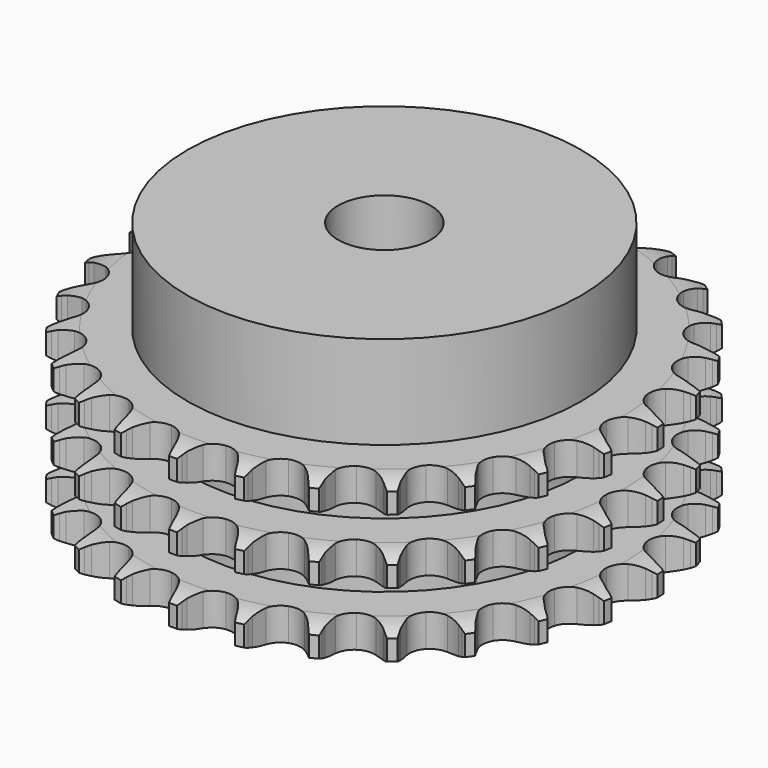
from build123d import *

# Parameters (mm, degrees)
PAD_DEPTH         = 34.9
SKETCH001_R       = 42.5
PAD001_DEPTH      = 55
SKETCH002_R       = 10
POCKET_DEPTH      = 0.001
POCKET_DEPTH_BACK = 55.001


with BuildPart() as part:
    # Sprocket → Pad (new body)
    with BuildSketch(Plane.XY):
        with BuildLine():
            ThreePointArc((-6.790948, 58.100272), (-5.963647, 57.039551), (-5.356117, 55.839358))
            Line((-5.356117, 55.839358), (-4.941702, 54.776235))
            ThreePointArc((-4.941702, 54.776235), (-4.282171, 53.379584), (-3.435517, 52.087767))
            ThreePointArc((-3.435517, 52.087767), (-1.917573, 50.832759), (0, 50.383192))
            ThreePointArc((0, 50.383192), (1.917573, 50.832759), (3.435517, 52.087767))
            ThreePointArc((3.435517, 52.087767), (4.282171, 53.379584), (4.941702, 54.776235))
            Line((4.941702, 54.776235), (5.356117, 55.839358))
            ThreePointArc((5.356117, 55.839358), (5.963647, 57.039551), (6.790948, 58.100272))
            ThreePointArc((6.790948, 58.100272), (7.35133, 56.877354), (7.6657, 55.569406))
            Line((7.6657, 55.569406), (7.823772, 54.439369))
            ThreePointArc((7.823772, 54.439369), (8.143435, 52.928267), (8.669354, 51.47602))
            ThreePointArc((8.669354, 51.47602), (9.856956, 49.904778), (11.619164, 49.025107))
            ThreePointArc((11.619164, 49.025107), (13.588726, 49.020333), (15.355178, 49.89145))
            Line((15.355178, 49.89145), (17.440766, 52.160099))
            ThreePointArc((17.440766, 52.160099), (17.752927, 52.637868), (18.089184, 53.098995))
            ThreePointArc((18.089184, 53.098995), (18.957122, 54.126731), (20.006742, 54.968071))
            ThreePointArc((20.006742, 54.968071), (20.269994, 53.648884), (20.274257, 52.303693))
            Line((20.274257, 52.303693), (20.167463, 51.167663))
            ThreePointArc((20.167463, 51.167663), (20.130026, 49.623573), (20.306857, 48.089186))
            ThreePointArc((20.306857, 48.089186), (21.100094, 46.286418), (22.611935, 45.024065))
            ThreePointArc((22.611935, 45.024065), (24.527307, 44.565207), (26.447037, 45.005472))
            Line((26.447037, 45.005472), (28.999595, 46.732))
            ThreePointArc((28.999595, 46.732), (29.413522, 47.1249), (29.847059, 47.496052))
            ThreePointArc((29.847059, 47.496052), (30.928613, 48.295924), (32.143967, 48.872528))
            ThreePointArc((32.143967, 48.872528), (32.095898, 47.528189), (31.789824, 46.218275))
            Line((31.789824, 46.218275), (31.423922, 45.137495))
            ThreePointArc((31.423922, 45.137495), (31.031402, 43.64366), (30.849613, 42.109852))
            ThreePointArc((30.849613, 42.109852), (31.205721, 40.172745), (32.385692, 38.595765))
            ThreePointArc((32.385692, 38.595765), (34.143614, 37.70756), (36.11313, 37.693237))
            Line((36.11313, 37.693237), (38.995048, 38.784566))
            ThreePointArc((38.995048, 38.784566), (39.488427, 39.071418), (39.995871, 39.332584))
            ThreePointArc((39.995871, 39.332584), (41.232735, 39.861472), (42.548303, 40.142253))
            ThreePointArc((42.548303, 40.142253), (42.191503, 38.845237), (41.591593, 37.641218))
            Line((41.591593, 37.641218), (40.986309, 36.673953))
            ThreePointArc((40.986309, 36.673953), (40.259868, 35.310906), (39.729258, 33.860366))
            ThreePointArc((39.729258, 33.860366), (39.62904, 31.893349), (40.413527, 30.086756))
            ThreePointArc((40.413527, 30.086756), (41.91923, 28.817089), (43.832355, 28.34895))
            Line((43.832355, 28.34895), (46.888268, 28.746246))
            ThreePointArc((46.888268, 28.746246), (47.4345, 28.911584), (47.988495, 29.048687))
            ThreePointArc((47.988495, 29.048687), (49.31399, 29.278078), (50.658849, 29.2479))
            ThreePointArc((50.658849, 29.2479), (50.012554, 28.068129), (49.151148, 27.034912))
            Line((49.151148, 27.034912), (48.339113, 26.233308))
            ThreePointArc((48.339113, 26.233308), (47.317913, 25.074531), (46.467088, 23.785458))
            ThreePointArc((46.467088, 23.785458), (45.915946, 21.894574), (46.262659, 19.955763))
            ThreePointArc((46.262659, 19.955763), (47.43497, 18.37308), (49.188566, 17.476364))
            Line((49.188566, 17.476364), (52.253729, 17.158208))
            ThreePointArc((52.253729, 17.158208), (52.823367, 17.19312), (53.394047, 17.198767))
            ThreePointArc((53.394047, 17.198767), (54.736714, 17.116295), (56.038363, 16.776784))
            ThreePointArc((56.038363, 16.776784), (55.137415, 15.77786), (54.060952, 14.971148))
            Line((54.060952, 14.971148), (53.085943, 14.378419))
            ThreePointArc((53.085943, 14.378419), (51.825037, 13.486382), (50.699866, 12.428269))
            ThreePointArc((50.699866, 12.428269), (49.727512, 10.715457), (49.617759, 8.74895))
            ThreePointArc((49.617759, 8.74895), (50.393478, 6.938575), (51.893008, 5.661622))
            Line((51.893008, 5.661622), (54.802178, 4.645167))
            ThreePointArc((54.802178, 4.645167), (55.364513, 4.547771), (55.921112, 4.421657))
            ThreePointArc((55.921112, 4.421657), (57.208568, 4.031768), (58.396834, 3.401228))
            ThreePointArc((58.396834, 3.401228), (57.289804, 2.637003), (56.056317, 2.100285))
            Line((56.056317, 2.100285), (54.970896, 1.748386))
            ThreePointArc((54.970896, 1.748386), (53.538261, 1.171179), (52.199401, 0.40107))
            ThreePointArc((52.199401, 0.40107), (50.858255, -1.041333), (50.297952, -2.929522))
            ThreePointArc((50.297952, -2.929522), (50.635261, -4.869991), (51.799886, -6.458339))
            Line((51.799886, -6.458339), (54.396227, -8.118296))
            ThreePointArc((54.396227, -8.118296), (54.920944, -8.34275), (55.433456, -8.593825))
            ThreePointArc((55.433456, -8.593825), (56.596294, -9.270112), (57.607117, -10.157689))
            ThreePointArc((57.607117, -10.157689), (56.353685, -10.646016), (55.029671, -10.883805))
            Line((55.029671, -10.883805), (53.892354, -10.975903))
            ThreePointArc((53.892354, -10.975903), (52.365222, -11.207163), (50.884852, -11.647751))
            ThreePointArc((50.884852, -11.647751), (49.247216, -12.741984), (48.26657, -14.450062))
            ThreePointArc((48.26657, -14.450062), (48.147284, -16.416015), (48.914218, -18.230129))
            Line((48.914218, -18.230129), (51.057762, -20.444099))
            ThreePointArc((51.057762, -20.444099), (51.516572, -20.783512), (51.957367, -21.146012))
            ThreePointArc((51.957367, -21.146012), (52.932898, -22.072239), (53.711785, -23.169003))
            ThreePointArc((53.711785, -23.169003), (52.379523, -23.355106), (51.036361, -23.281146))
            Line((51.036361, -23.281146), (49.908461, -23.108478))
            ThreePointArc((49.908461, -23.108478), (48.369161, -22.981324), (46.827088, -23.068639))
            ThreePointArc((46.827088, -23.068639), (44.981247, -23.755712), (43.633125, -25.191596))
            ThreePointArc((43.633125, -25.191596), (43.063674, -27.077047), (43.391571, -29.019129))
            Line((43.391571, -29.019129), (44.96676, -31.667756))
            ThreePointArc((44.96676, -31.667756), (45.334928, -32.103829), (45.680244, -32.558212))
            ThreePointArc((45.680244, -32.558212), (46.415876, -33.684445), (46.920838, -34.931269))
            ThreePointArc((46.920838, -34.931269), (45.581569, -34.805115), (44.291667, -34.423394))
            Line((44.291667, -34.423394), (43.233991, -33.99527))
            ThreePointArc((43.233991, -33.99527), (41.765506, -33.516555), (40.244864, -33.24589))
            ThreePointArc((40.244864, -33.24589), (38.290328, -33.488763), (36.647406, -34.575045))
            ThreePointArc((36.647406, -34.575045), (35.65849, -36.278348), (35.529674, -38.243699))
            Line((35.529674, -38.243699), (36.451588, -41.184196))
            ThreePointArc((36.451588, -41.184196), (36.709267, -41.69342), (36.940487, -42.21519))
            ThreePointArc((36.940487, -42.21519), (37.396563, -43.480714), (37.600375, -44.810382))
            ThreePointArc((37.600375, -44.810382), (36.3263, -44.378772), (35.159199, -43.709868))
            Line((35.159199, -43.709868), (34.228764, -43.049367))
            ThreePointArc((34.228764, -43.049367), (32.910262, -42.244901), (31.493028, -41.630848))
            ThreePointArc((31.493028, -41.630848), (29.535167, -41.416427), (27.686017, -42.094543))
            ThreePointArc((27.686017, -42.094543), (26.330948, -43.523874), (25.752363, -45.406542))
            Line((25.752363, -45.406542), (25.971301, -48.480386))
            ThreePointArc((25.971301, -48.480386), (26.1046, -49.035308), (26.209258, -49.596337))
            ThreePointArc((26.209258, -49.596337), (26.361191, -50.932927), (26.252867, -52.273756))
            ThreePointArc((26.252867, -52.273756), (25.11267, -51.559957), (24.131288, -50.639933))
            Line((24.131288, -50.639933), (23.378256, -49.782662))
            ThreePointArc((23.378256, -49.782662), (22.280817, -48.695813), (21.043395, -47.771475))
            ThreePointArc((21.043395, -47.771475), (19.187757, -47.11132), (17.232067, -47.344714))
            ThreePointArc((17.232067, -47.344714), (15.583898, -48.423017), (14.586736, -50.121507))
            Line((14.586736, -50.121507), (14.090895, -53.162985))
            ThreePointArc((14.090895, -53.162985), (14.092627, -53.73369), (14.065082, -54.303732))
            ThreePointArc((14.065082, -54.303732), (13.90468, -55.639332), (13.49006, -56.919038))
            ThreePointArc((13.49006, -56.919038), (12.545211, -55.961533), (11.802454, -54.839985))
            Line((11.802454, -54.839985), (11.26742, -53.832161))
            ThreePointArc((11.26742, -53.832161), (10.450208, -52.521521), (9.459308, -51.336729))
            ThreePointArc((9.459308, -51.336729), (7.805931, -50.266429), (5.849132, -50.042519))
            ThreePointArc((5.849132, -50.042519), (3.996716, -50.711663), (2.634734, -52.134408))
            Line((2.634734, -52.134408), (1.450845, -54.979554))
            ThreePointArc((1.450845, -54.979554), (1.320916, -55.535275), (1.162653, -56.083599))
            ThreePointArc((1.162653, -56.083599), (0.698565, -57.346207), (0, -58.4958))
            ThreePointArc((0, -58.4958), (-0.698565, -57.346207), (-1.162653, -56.083599))
            Line((-1.162653, -56.083599), (-1.450845, -54.979554))
            ThreePointArc((-1.450845, -54.979554), (-1.943775, -53.51578), (-2.634734, -52.134408))
            ThreePointArc((-2.634734, -52.134408), (-3.996716, -50.711663), (-5.849132, -50.042519))
            ThreePointArc((-5.849132, -50.042519), (-7.805931, -50.266429), (-9.459308, -51.336729))
            Line((-9.459308, -51.336729), (-11.26742, -53.832161))
            ThreePointArc((-11.26742, -53.832161), (-11.522005, -54.342938), (-11.802454, -54.839985))
            ThreePointArc((-11.802454, -54.839985), (-12.545211, -55.961533), (-13.49006, -56.919038))
            ThreePointArc((-13.49006, -56.919038), (-13.90468, -55.639332), (-14.065082, -54.303732))
            Line((-14.065082, -54.303732), (-14.090895, -53.162985))
            ThreePointArc((-14.090895, -53.162985), (-14.232969, -51.62499), (-14.586736, -50.121507))
            ThreePointArc((-14.586736, -50.121507), (-15.583898, -48.423017), (-17.232067, -47.344714))
            ThreePointArc((-17.232067, -47.344714), (-19.187757, -47.11132), (-21.043395, -47.771475))
            Line((-21.043395, -47.771475), (-23.378256, -49.782662))
            ThreePointArc((-23.378256, -49.782662), (-23.743772, -50.22096), (-24.131288, -50.639933))
            ThreePointArc((-24.131288, -50.639933), (-25.11267, -51.559957), (-26.252867, -52.273756))
            ThreePointArc((-26.252867, -52.273756), (-26.361191, -50.932927), (-26.209258, -49.596337))
            Line((-26.209258, -49.596337), (-25.971301, -48.480386))
            ThreePointArc((-25.971301, -48.480386), (-25.75486, -46.951083), (-25.752363, -45.406542))
            ThreePointArc((-25.752363, -45.406542), (-26.330948, -43.523874), (-27.686017, -42.094543))
            ThreePointArc((-27.686017, -42.094543), (-29.535167, -41.416427), (-31.493028, -41.630848))
            Line((-31.493028, -41.630848), (-34.228764, -43.049367))
            ThreePointArc((-34.228764, -43.049367), (-34.685506, -43.391557), (-35.159199, -43.709868))
            ThreePointArc((-35.159199, -43.709868), (-36.3263, -44.378772), (-37.600375, -44.810382))
            ThreePointArc((-37.600375, -44.810382), (-37.396563, -43.480714), (-36.940487, -42.21519))
            Line((-36.940487, -42.21519), (-36.451588, -41.184196))
            ThreePointArc((-36.451588, -41.184196), (-35.888299, -39.746031), (-35.529674, -38.243699))
            ThreePointArc((-35.529674, -38.243699), (-35.65849, -36.278348), (-36.647406, -34.575045))
            ThreePointArc((-36.647406, -34.575045), (-38.290328, -33.488763), (-40.244864, -33.24589))
            Line((-40.244864, -33.24589), (-43.233991, -33.99527))
            ThreePointArc((-43.233991, -33.99527), (-43.757335, -34.222904), (-44.291667, -34.423394))
            ThreePointArc((-44.291667, -34.423394), (-45.581569, -34.805115), (-46.920838, -34.931269))
            ThreePointArc((-46.920838, -34.931269), (-46.415876, -33.684445), (-45.680244, -32.558212))
            Line((-45.680244, -32.558212), (-44.96676, -31.667756))
            ThreePointArc((-44.96676, -31.667756), (-44.086991, -30.398261), (-43.391571, -29.019129))
            ThreePointArc((-43.391571, -29.019129), (-43.063674, -27.077047), (-43.633125, -25.191596))
            ThreePointArc((-43.633125, -25.191596), (-44.981247, -23.755712), (-46.827088, -23.068639))
            Line((-46.827088, -23.068639), (-49.908461, -23.108478))
            ThreePointArc((-49.908461, -23.108478), (-50.470195, -23.209285), (-51.036361, -23.281146))
            ThreePointArc((-51.036361, -23.281146), (-52.379523, -23.355106), (-53.711785, -23.169003))
            ThreePointArc((-53.711785, -23.169003), (-52.932898, -22.072239), (-51.957367, -21.146012))
            Line((-51.957367, -21.146012), (-51.057762, -20.444099))
            ThreePointArc((-51.057762, -20.444099), (-49.908942, -19.411712), (-48.914218, -18.230129))
            ThreePointArc((-48.914218, -18.230129), (-48.147284, -16.416015), (-48.26657, -14.450062))
            ThreePointArc((-48.26657, -14.450062), (-49.247216, -12.741984), (-50.884852, -11.647751))
            Line((-50.884852, -11.647751), (-53.892354, -10.975903))
            ThreePointArc((-53.892354, -10.975903), (-54.462194, -10.944448), (-55.029671, -10.883805))
            ThreePointArc((-55.029671, -10.883805), (-56.353685, -10.646016), (-57.607117, -10.157689))
            ThreePointArc((-57.607117, -10.157689), (-56.596294, -9.270112), (-55.433456, -8.593825))
            Line((-55.433456, -8.593825), (-54.396227, -8.118296))
            ThreePointArc((-54.396227, -8.118296), (-53.040288, -7.378673), (-51.799886, -6.458339))
            ThreePointArc((-51.799886, -6.458339), (-50.635261, -4.869991), (-50.297952, -2.929522))
            ThreePointArc((-50.297952, -2.929522), (-50.858255, -1.041333), (-52.199401, 0.40107))
            Line((-52.199401, 0.40107), (-54.970896, 1.748386))
            ThreePointArc((-54.970896, 1.748386), (-55.518122, 1.910407), (-56.056317, 2.100285))
            ThreePointArc((-56.056317, 2.100285), (-57.289804, 2.637003), (-58.396834, 3.401228))
            ThreePointArc((-58.396834, 3.401228), (-57.208568, 4.031768), (-55.921112, 4.421657))
            Line((-55.921112, 4.421657), (-54.802178, 4.645167))
            ThreePointArc((-54.802178, 4.645167), (-53.31222, 5.052153), (-51.893008, 5.661622))
            ThreePointArc((-51.893008, 5.661622), (-50.393478, 6.938575), (-49.617759, 8.74895))
            ThreePointArc((-49.617759, 8.74895), (-49.727512, 10.715457), (-50.699866, 12.428269))
            Line((-50.699866, 12.428269), (-53.085943, 14.378419))
            ThreePointArc((-53.085943, 14.378419), (-53.581054, 14.662272), (-54.060952, 14.971148))
            ThreePointArc((-54.060952, 14.971148), (-55.137415, 15.77786), (-56.038363, 16.776784))
            ThreePointArc((-56.038363, 16.776784), (-54.736714, 17.116295), (-53.394047, 17.198767))
            Line((-53.394047, 17.198767), (-52.253729, 17.158208))
            ThreePointArc((-52.253729, 17.158208), (-50.710075, 17.210615), (-49.188566, 17.476364))
            ThreePointArc((-49.188566, 17.476364), (-47.43497, 18.37308), (-46.262659, 19.955763))
            ThreePointArc((-46.262659, 19.955763), (-45.915946, 21.894574), (-46.467088, 23.785458))
            Line((-46.467088, 23.785458), (-48.339113, 26.233308))
            ThreePointArc((-48.339113, 26.233308), (-48.755417, 26.62369), (-49.151148, 27.034912))
            ThreePointArc((-49.151148, 27.034912), (-50.012554, 28.068129), (-50.658849, 29.2479))
            ThreePointArc((-50.658849, 29.2479), (-49.31399, 29.278078), (-47.988495, 29.048687))
            Line((-47.988495, 29.048687), (-46.888268, 28.746246))
            ThreePointArc((-46.888268, 28.746246), (-45.374138, 28.441249), (-43.832355, 28.34895))
            ThreePointArc((-43.832355, 28.34895), (-41.91923, 28.817089), (-40.413527, 30.086756))
            ThreePointArc((-40.413527, 30.086756), (-39.62904, 31.893349), (-39.729258, 33.860366))
            Line((-39.729258, 33.860366), (-40.986309, 36.673953))
            ThreePointArc((-40.986309, 36.673953), (-41.301363, 37.149818), (-41.591593, 37.641218))
            ThreePointArc((-41.591593, 37.641218), (-42.191503, 38.845237), (-42.548303, 40.142253))
            ThreePointArc((-42.548303, 40.142253), (-41.232735, 39.861472), (-39.995871, 39.332584))
            Line((-39.995871, 39.332584), (-38.995048, 38.784566))
            ThreePointArc((-38.995048, 38.784566), (-37.592068, 38.138608), (-36.11313, 37.693237))
            ThreePointArc((-36.11313, 37.693237), (-34.143614, 37.70756), (-32.385692, 38.595765))
            ThreePointArc((-32.385692, 38.595765), (-31.205721, 40.172745), (-30.849613, 42.109852))
            Line((-30.849613, 42.109852), (-31.423922, 45.137495))
            ThreePointArc((-31.423922, 45.137495), (-31.620742, 45.67319), (-31.789824, 46.218275))
            ThreePointArc((-31.789824, 46.218275), (-32.095898, 47.528189), (-32.143967, 48.872528))
            ThreePointArc((-32.143967, 48.872528), (-30.928613, 48.295924), (-29.847059, 47.496052))
            Line((-29.847059, 47.496052), (-28.999595, 46.732))
            ThreePointArc((-28.999595, 46.732), (-27.783401, 45.779904), (-26.447037, 45.005472))
            ThreePointArc((-26.447037, 45.005472), (-24.527307, 44.565207), (-22.611935, 45.024065))
            ThreePointArc((-22.611935, 45.024065), (-21.100094, 46.286418), (-20.306857, 48.089186))
            Line((-20.306857, 48.089186), (-20.167463, 51.167663))
            ThreePointArc((-20.167463, 51.167663), (-20.235438, 51.734308), (-20.274257, 52.303693))
            ThreePointArc((-20.274257, 52.303693), (-20.269994, 53.648884), (-20.006742, 54.968071))
            ThreePointArc((-20.006742, 54.968071), (-18.957122, 54.126731), (-18.089184, 53.098995))
            Line((-18.089184, 53.098995), (-17.440766, 52.160099))
            ThreePointArc((-17.440766, 52.160099), (-16.476923, 50.953194), (-15.355178, 49.89145))
            ThreePointArc((-15.355178, 49.89145), (-13.588726, 49.020333), (-11.619164, 49.025107))
            ThreePointArc((-11.619164, 49.025107), (-9.856956, 49.904778), (-8.669354, 51.47602))
            Line((-8.669354, 51.47602), (-7.823772, 54.439369))
            ThreePointArc((-7.823772, 54.439369), (-7.759237, 55.006416), (-7.6657, 55.569406))
            ThreePointArc((-7.6657, 55.569406), (-7.35133, 56.877354), (-6.790948, 58.100272))
        make_face()
    extrude(amount=PAD_DEPTH)

    # Sketch → Groove (revolve, cut)
    with BuildSketch(Plane.XZ):
        with BuildLine():
            ThreePointArc((51.333431, 0), (54.24032, 0.329167), (57, 1.3))
            Line((57, 1.3), (57, 5.7))
            ThreePointArc((57, 5.7), (54.24032, 6.670833), (51.333431, 7))
            Line((42.5, 7), (51.333431, 7))
            Line((42.5, 7), (42.5, 13.95))
            Line((42.5, 13.95), (51.333431, 13.95))
            ThreePointArc((51.333431, 13.95), (54.24032, 14.279167), (57, 15.25))
            Line((57, 19.65), (57, 15.25))
            ThreePointArc((57, 19.65), (54.24032, 20.620833), (51.333431, 20.95))
            Line((42.5, 20.95), (51.333431, 20.95))
            Line((42.5, 27.9), (42.5, 20.95))
            Line((51.333431, 27.9), (42.5, 27.9))
            ThreePointArc((51.333431, 27.9), (54.24032, 28.229167), (57, 29.2))
            Line((57, 29.2), (57, 33.6))
            ThreePointArc((57, 33.6), (54.24032, 34.570833), (51.333431, 34.9))
            Line((51.333431, 34.9), (67, 34.9))
            Line((67, 34.9), (67, 0))
            Line((51.333431, 0), (67, 0))
        make_face()
    revolve(axis=Axis((0, 0, 0), (0, 0, 1)), mode=Mode.SUBTRACT)

    # Sketch001 → Pad001 (join)
    with BuildSketch(Plane.XY):
        Circle(SKETCH001_R)
    extrude(amount=PAD001_DEPTH)

    # Sketch002 → Pocket (cut, two sides)
    with BuildSketch(Plane.XY) as pocket_sk:
        Circle(SKETCH002_R)
    extrude(amount=-POCKET_DEPTH, mode=Mode.SUBTRACT)
    extrude(pocket_sk.sketch, amount=POCKET_DEPTH_BACK, mode=Mode.SUBTRACT)


solid = part.part
